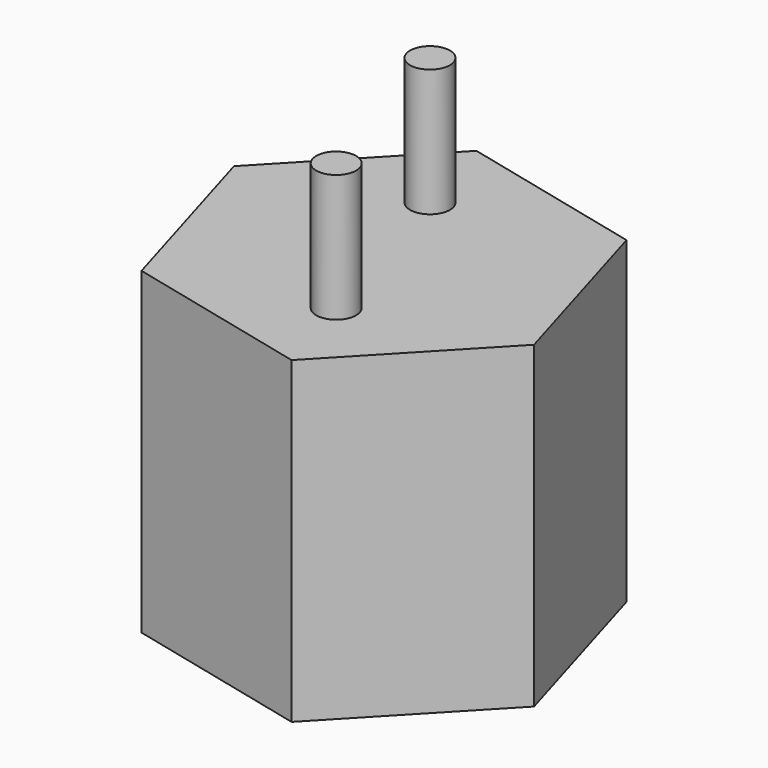
from build123d import *

# Parameters (mm, degrees)
F2_DEPTH = 25.4
F3_DEPTH = 18.796
F4_R     = 1.5875
F6_DEPTH = 10.16
F5_R     = 1.5875
F7_DEPTH = 10.16


with BuildPart() as f2:
    # F0 (on Top) → F2 (new body)
    with BuildSketch(Plane.XY):
        Polygon((4.320436, -14.614768), (14.816978, -3.565776), (10.496542, 11.048991), (-4.320436, 14.614768), (-14.816978, 3.565776), (-10.496542, -11.048991), align=None)
    extrude(amount=F2_DEPTH)

    # F1 (on face) → F3 (cut)
    with BuildSketch(Plane.XY):
        with BuildLine():
            add(Edge.make_bspline(
                [(3.865747, -13.424489), (14.234036, -10.438812), (3.251271, 8.205083), (-7.731494, 26.848978), (-7.117018, 5.219406), (-6.502543, -16.410165), (3.865747, -13.424489)],
                knots=[0, 0, 0, 2.094395, 2.094395, 4.18879, 4.18879, 6.283185, 6.283185, 6.283185], degree=2, weights=[1, 0.5, 1, 0.5, 1, 0.5, 1]))
        make_face()
    extrude(amount=F3_DEPTH, mode=Mode.SUBTRACT)

    # F4 (on face) → F6 (join)
    with BuildSketch(Plane.XY.offset(25.4)):
        with Locations((-2.218525, 7.356244)):
            Circle(F4_R)
    extrude(amount=F6_DEPTH)

    # F5 (on face) → F7 (join)
    with BuildSketch(Plane.XY.offset(25.4)):
        with Locations((2.099516, -7.391089)):
            Circle(F5_R)
    extrude(amount=F7_DEPTH)


solid = f2.part
